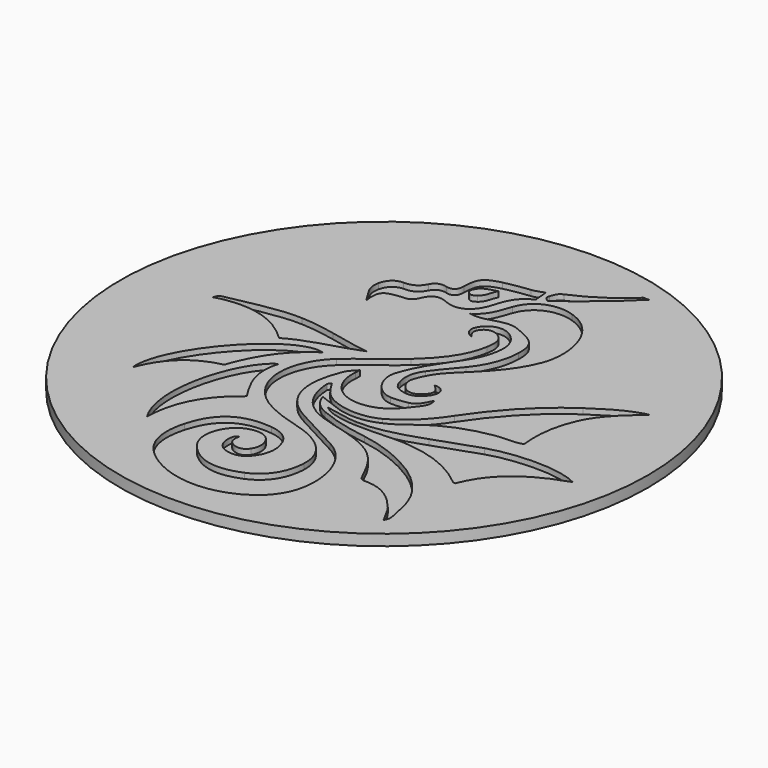
from build123d import *

# Parameters (mm, degrees)
SKETCH001_R  = 240
PAD_DEPTH    = 10
POCKET_DEPTH = 5


with BuildPart() as part:
    # Sketch001 (on DatumPlane) → Pad (new body)
    with BuildSketch(Plane.XY):
        Circle(SKETCH001_R)
    extrude(amount=-PAD_DEPTH)

    # Sketch (on DatumPlane) → Pocket (cut)
    with BuildSketch(Plane(origin=(-180, 220, 0), x_dir=(1, 0, 0), z_dir=(0, 0, 1))):
        with BuildLine():
            add(Edge.make_bspline(
                [(251.898547, -8.966914), (235.215853, -26.176737), (216.200778, -40.627432), (197.433988, -55.327603)],
                knots=[0, 0, 0, 0, 1, 1, 1, 1], degree=3))
            add(Edge.make_bspline(
                [(197.433988, -55.327603), (194.574954, -53.999421), (192.332001, -52.618217), (193.41428, -49.039436)],
                knots=[0, 0, 0, 0, 1, 1, 1, 1], degree=3))
            add(Edge.make_bspline(
                [(193.41428, -49.039436), (194.532515, -45.341858), (195.292001, -42.000355), (199.778461, -40.127714)],
                knots=[0, 0, 0, 0, 1, 1, 1, 1], degree=3))
            add(Edge.make_bspline(
                [(199.778461, -40.127714), (216.698539, -33.06535), (231.496764, -22.527048), (245.384188, -10.672789)],
                knots=[0, 0, 0, 0, 1, 1, 1, 1], degree=3))
            add(Edge.make_bspline(
                [(245.384188, -10.672789), (245.857607, -10.268664), (246.056388, -9.542806), (246.383175, -8.966914)],
                knots=[0, 0, 0, 0, 1, 1, 1, 1], degree=3))
            add(Edge.make_bspline(
                [(246.383175, -8.966914), (248.221632, -8.966914), (250.06009, -8.966914), (251.898547, -8.966914)],
                knots=[0, 0, 0, 0, 1, 1, 1, 1], degree=3))
        make_face()
        with BuildLine():
            add(Edge.make_bspline(
                [(189.325091, -131.952841), (182.651506, -129.816754), (180.049567, -124.129086), (182.697993, -118.828026)],
                knots=[0, 0, 0, 0, 1, 1, 1, 1], degree=3))
            add(Edge.make_bspline(
                [(182.697993, -118.828026), (188.268001, -107.679199), (202.123728, -105.089775), (212.252322, -116.271225)],
                knots=[0, 0, 0, 0, 1, 1, 1, 1], degree=3))
            add(Edge.make_bspline(
                [(212.252322, -116.271225), (220.468587, -125.341565), (218.687597, -136.417182), (215.62404, -146.88095)],
                knots=[0, 0, 0, 0, 1, 1, 1, 1], degree=3))
            add(Edge.make_bspline(
                [(215.62404, -146.88095), (212.979476, -155.913481), (207.48461, -163.666726), (202.092004, -171.362767)],
                knots=[0, 0, 0, 0, 1, 1, 1, 1], degree=3))
            add(Edge.make_bspline(
                [(202.092004, -171.362767), (193.699924, -183.339608), (186.166363, -195.766425), (181.792563, -209.905468)],
                knots=[0, 0, 0, 0, 1, 1, 1, 1], degree=3))
            add(Edge.make_bspline(
                [(181.792563, -209.905468), (177.878581, -222.558028), (189.246563, -239.971659), (202.531239, -240.68913)],
                knots=[0, 0, 0, 0, 1, 1, 1, 1], degree=3))
            add(Edge.make_bspline(
                [(202.531239, -240.68913), (207.48789, -240.956835), (212.604853, -240.210843), (217.497792, -239.197938)],
                knots=[0, 0, 0, 0, 1, 1, 1, 1], degree=3))
            add(Edge.make_bspline(
                [(217.497792, -239.197938), (223.32532, -237.991597), (225.136948, -235.600266), (229.905666, -225.557715)],
                knots=[0, 0, 0, 0, 1, 1, 1, 1], degree=3))
            add(Edge.make_bspline(
                [(229.905666, -225.557715), (231.939015, -230.237903), (230.052615, -234.637051), (228.004952, -237.40028)],
                knots=[0, 0, 0, 0, 1, 1, 1, 1], degree=3))
            add(Edge.make_bspline(
                [(228.004952, -237.40028), (220.747616, -247.193726), (213.659323, -257.161427), (200.479819, -260.579738)],
                knots=[0, 0, 0, 0, 1, 1, 1, 1], degree=3))
            add(Edge.make_bspline(
                [(200.479819, -260.579738), (174.994623, -267.189717), (156.98687, -249.020859), (159.066733, -226.161283)],
                knots=[0, 0, 0, 0, 1, 1, 1, 1], degree=3))
            add(Edge.make_bspline(
                [(159.066733, -226.161283), (159.16828, -225.045058), (159.198178, -223.922325), (159.325363, -221.671303)],
                knots=[0, 0, 0, 0, 1, 1, 1, 1], degree=3))
            add(Edge.make_bspline(
                [(159.325363, -221.671303), (155.714806, -225.295222), (152.924748, -228.126184), (151.339471, -232.099353)],
                knots=[0, 0, 0, 0, 1, 1, 1, 1], degree=3))
            add(Edge.make_bspline(
                [(151.339471, -232.099353), (139.701773, -261.266993), (144.274619, -286.106605), (171.93514, -300.763411)],
                knots=[0, 0, 0, 0, 1, 1, 1, 1], degree=3))
            add(Edge.make_bspline(
                [(171.93514, -300.763411), (185.799756, -308.10999), (199.590951, -315.595), (213.433422, -322.98349)],
                knots=[0, 0, 0, 0, 1, 1, 1, 1], degree=3))
            add(Edge.make_bspline(
                [(213.433422, -322.98349), (240.421319, -337.388518), (246.903214, -374.849337), (237.56448, -397.372179)],
                knots=[0, 0, 0, 0, 1, 1, 1, 1], degree=3))
            add(Edge.make_bspline(
                [(237.56448, -397.372179), (233.795544, -406.461939), (227.493962, -413.727926), (219.428774, -419.279917)],
                knots=[0, 0, 0, 0, 1, 1, 1, 1], degree=3))
            add(Edge.make_bspline(
                [(219.428774, -419.279917), (189.945936, -439.575601), (150.06865, -435.275911), (124.894949, -412.414085)],
                knots=[0, 0, 0, 0, 1, 1, 1, 1], degree=3))
            add(Edge.make_bspline(
                [(124.894949, -412.414085), (110.427876, -399.275644), (108.513166, -381.631428), (113.526226, -363.55782)],
                knots=[0, 0, 0, 0, 1, 1, 1, 1], degree=3))
            add(Edge.make_bspline(
                [(113.526226, -363.55782), (121.035339, -336.485151), (138.329009, -326.282473), (164.843328, -329.106107)],
                knots=[0, 0, 0, 0, 1, 1, 1, 1], degree=3))
            add(Edge.make_bspline(
                [(164.843328, -329.106107), (174.038048, -330.085277), (182.121625, -334.1252), (185.866035, -343.315316)],
                knots=[0, 0, 0, 0, 1, 1, 1, 1], degree=3))
            add(Edge.make_bspline(
                [(185.866035, -343.315316), (190.049547, -353.583134), (188.931206, -363.45405), (181.776079, -372.281212)],
                knots=[0, 0, 0, 0, 1, 1, 1, 1], degree=3))
            add(Edge.make_bspline(
                [(181.776079, -372.281212), (176.478539, -378.816817), (168.43203, -380.413339), (160.127341, -376.630486)],
                knots=[0, 0, 0, 0, 1, 1, 1, 1], degree=3))
            add(Edge.make_bspline(
                [(160.127341, -376.630486), (154.150748, -373.908108), (151.369898, -367.02074), (152.757399, -359.077445)],
                knots=[0, 0, 0, 0, 1, 1, 1, 1], degree=3))
            add(Edge.make_bspline(
                [(152.757399, -359.077445), (153.118688, -357.009065), (154.032003, -355.79476), (156.349991, -354.732908)],
                knots=[0, 0, 0, 0, 1, 1, 1, 1], degree=3))
            add(Edge.make_bspline(
                [(156.349991, -354.732908), (155.190746, -360.441081), (155.760764, -365.085021), (161.77977, -367.551891)],
                knots=[0, 0, 0, 0, 1, 1, 1, 1], degree=3))
            add(Edge.make_bspline(
                [(161.77977, -367.551891), (167.145441, -369.750975), (171.732469, -368.330162), (174.360046, -363.96631)],
                knots=[0, 0, 0, 0, 1, 1, 1, 1], degree=3))
            add(Edge.make_bspline(
                [(174.360046, -363.96631), (177.408073, -358.904249), (177.529146, -352.761338), (174.354146, -347.54439)],
                knots=[0, 0, 0, 0, 1, 1, 1, 1], degree=3))
            add(Edge.make_bspline(
                [(174.354146, -347.54439), (171.146576, -342.273811), (165.709944, -340.069011), (159.638312, -340.654587)],
                knots=[0, 0, 0, 0, 1, 1, 1, 1], degree=3))
            add(Edge.make_bspline(
                [(159.638312, -340.654587), (147.390167, -341.835846), (139.93831, -349.732865), (136.830461, -360.610864)],
                knots=[0, 0, 0, 0, 1, 1, 1, 1], degree=3))
            add(Edge.make_bspline(
                [(136.830461, -360.610864), (133.859508, -371.009624), (136.95008, -380.691999), (145.088636, -388.704164)],
                knots=[0, 0, 0, 0, 1, 1, 1, 1], degree=3))
            add(Edge.make_bspline(
                [(145.088636, -388.704164), (159.681968, -403.070854), (176.496027, -403.166421), (193.774192, -395.981396)],
                knots=[0, 0, 0, 0, 1, 1, 1, 1], degree=3))
            add(Edge.make_bspline(
                [(193.774192, -395.981396), (207.855661, -390.125717), (216.951242, -377.299299), (217.885354, -358.588098)],
                knots=[0, 0, 0, 0, 1, 1, 1, 1], degree=3))
            add(Edge.make_bspline(
                [(217.885354, -358.588098), (218.912334, -338.016718), (203.423599, -325.73296), (186.581441, -319.238339)],
                knots=[0, 0, 0, 0, 1, 1, 1, 1], degree=3))
            add(Edge.make_bspline(
                [(186.581441, -319.238339), (178.094508, -315.965602), (169.052081, -314.157519), (160.477835, -311.082187)],
                knots=[0, 0, 0, 0, 1, 1, 1, 1], degree=3))
            add(Edge.make_bspline(
                [(160.477835, -311.082187), (142.611263, -304.673847), (127.024024, -295.193985), (119.746871, -276.420024)],
                knots=[0, 0, 0, 0, 1, 1, 1, 1], degree=3))
            add(Edge.make_bspline(
                [(119.746871, -276.420024), (112.147482, -256.81469), (119.302556, -233.252857), (135.651002, -218.510035)],
                knots=[0, 0, 0, 0, 1, 1, 1, 1], degree=3))
            add(Edge.make_bspline(
                [(135.651002, -218.510035), (148.75809, -206.690198), (163.643151, -197.170199), (176.779925, -185.510884)],
                knots=[0, 0, 0, 0, 1, 1, 1, 1], degree=3))
            add(Edge.make_bspline(
                [(176.779925, -185.510884), (191.475545, -172.468011), (203.888022, -157.602634), (207.415739, -137.321634)],
                knots=[0, 0, 0, 0, 1, 1, 1, 1], degree=3))
            add(Edge.make_bspline(
                [(207.415739, -137.321634), (208.446687, -131.394491), (209.064463, -125.449991), (204.372633, -120.472121)],
                knots=[0, 0, 0, 0, 1, 1, 1, 1], degree=3))
            add(Edge.make_bspline(
                [(204.372633, -120.472121), (199.931311, -115.76005), (193.235077, -114.659807), (188.931497, -118.399401)],
                knots=[0, 0, 0, 0, 1, 1, 1, 1], degree=3))
            add(Edge.make_bspline(
                [(188.931497, -118.399401), (183.91714, -122.756639), (184.600929, -127.352319), (189.325091, -131.952841)],
                knots=[0, 0, 0, 0, 1, 1, 1, 1], degree=3))
        make_face()
        with BuildLine():
            add(Edge.make_bspline(
                [(362.498137, -146.930983), (349.168641, -158.555637), (336.027977, -169.960449), (328.720344, -186.496828)],
                knots=[0, 0, 0, 0, 1, 1, 1, 1], degree=3))
            add(Edge.make_bspline(
                [(328.720344, -186.496828), (321.545162, -202.733487), (319.242943, -219.636128), (321.421786, -237.764664)],
                knots=[0, 0, 0, 0, 1, 1, 1, 1], degree=3))
            add(Edge.make_bspline(
                [(321.421786, -237.764664), (313.353212, -240.414307), (304.998993, -239.052497), (296.966375, -240.327497)],
                knots=[0, 0, 0, 0, 1, 1, 1, 1], degree=3))
            add(Edge.make_bspline(
                [(296.966375, -240.327497), (275.578305, -243.722313), (256.119551, -251.252249), (239.287156, -265.068341)],
                knots=[0, 0, 0, 0, 1, 1, 1, 1], degree=3))
            add(Edge.make_bspline(
                [(239.287156, -265.068341), (230.455179, -272.317633), (220.405034, -277.65965), (209.336508, -279.589177)],
                knots=[0, 0, 0, 0, 1, 1, 1, 1], degree=3))
            add(Edge.make_bspline(
                [(209.336508, -279.589177), (201.219329, -281.004275), (192.52184, -280.40748), (184.411197, -277.582577)],
                knots=[0, 0, 0, 0, 1, 1, 1, 1], degree=3))
            add(Edge.make_bspline(
                [(184.411197, -277.582577), (178.073659, -275.375291), (171.825444, -272.911385), (164.255397, -270.082327)],
                knots=[0, 0, 0, 0, 1, 1, 1, 1], degree=3))
            add(Edge.make_bspline(
                [(164.255397, -270.082327), (167.051646, -279.197858), (173.19797, -284.126728), (180.073062, -287.085431)],
                knots=[0, 0, 0, 0, 1, 1, 1, 1], degree=3))
            add(Edge.make_bspline(
                [(180.073062, -287.085431), (194.510766, -293.298748), (209.781669, -296.78077), (225.41566, -299.083756)],
                knots=[0, 0, 0, 0, 1, 1, 1, 1], degree=3))
            add(Edge.make_bspline(
                [(225.41566, -299.083756), (240.586974, -301.318612), (254.954405, -306.706826), (268.639343, -313.681189)],
                knots=[0, 0, 0, 0, 1, 1, 1, 1], degree=3))
            add(Edge.make_bspline(
                [(268.639343, -313.681189), (285.225199, -322.133992), (299.232399, -333.57656), (308.300252, -350.109816)],
                knots=[0, 0, 0, 0, 1, 1, 1, 1], degree=3))
            add(Edge.make_bspline(
                [(308.300252, -350.109816), (312.803302, -358.320208), (314.990374, -367.474659), (316.500378, -376.709517)],
                knots=[0, 0, 0, 0, 1, 1, 1, 1], degree=3))
            add(Edge.make_bspline(
                [(316.500378, -376.709517), (317.233591, -381.19386), (319.992587, -385.723262), (316.41632, -391.035328)],
                knots=[0, 0, 0, 0, 1, 1, 1, 1], degree=3))
            add(Edge.make_bspline(
                [(316.41632, -391.035328), (312.685642, -385.026297), (310.481901, -378.804884), (306.311432, -373.704353)],
                knots=[0, 0, 0, 0, 1, 1, 1, 1], degree=3))
            add(Edge.make_bspline(
                [(306.311432, -373.704353), (296.412841, -361.598289), (285.106454, -352.276436), (268.358964, -352.584411)],
                knots=[0, 0, 0, 0, 1, 1, 1, 1], degree=3))
            add(Edge.make_bspline(
                [(268.358964, -352.584411), (265.092841, -352.644498), (263.789054, -350.64409), (262.505031, -347.853979)],
                knots=[0, 0, 0, 0, 1, 1, 1, 1], degree=3))
            add(Edge.make_bspline(
                [(262.505031, -347.853979), (256.343917, -334.46638), (249.380851, -321.438244), (236.39825, -313.367949)],
                knots=[0, 0, 0, 0, 1, 1, 1, 1], degree=3))
            add(Edge.make_bspline(
                [(236.39825, -313.367949), (224.089436, -305.71649), (210.067578, -302.219863), (196.182853, -298.635685)],
                knots=[0, 0, 0, 0, 1, 1, 1, 1], degree=3))
            add(Edge.make_bspline(
                [(196.182853, -298.635685), (184.061497, -295.506669), (172.291693, -291.374724), (164.195945, -281.369373)],
                knots=[0, 0, 0, 0, 1, 1, 1, 1], degree=3))
            add(Edge.make_bspline(
                [(164.195945, -281.369373), (157.629251, -273.253782), (154.92558, -263.246738), (154.358181, -252.802496)],
                knots=[0, 0, 0, 0, 1, 1, 1, 1], degree=3))
            add(Edge.make_bspline(
                [(154.358181, -252.802496), (154.322568, -252.14662), (155.403206, -251.430155), (156.547264, -250.027308)],
                knots=[0, 0, 0, 0, 1, 1, 1, 1], degree=3))
            add(Edge.make_bspline(
                [(156.547264, -250.027308), (160.416531, -256.003901), (163.411006, -261.959143), (169.044805, -266.162843)],
                knots=[0, 0, 0, 0, 1, 1, 1, 1], degree=3))
            add(Edge.make_bspline(
                [(169.044805, -266.162843), (181.990709, -275.822489), (204.236823, -277.636923), (218.504982, -270.130085)],
                knots=[0, 0, 0, 0, 1, 1, 1, 1], degree=3))
            add(Edge.make_bspline(
                [(218.504982, -270.130085), (234.416256, -261.758748), (245.983945, -248.850176), (255.626235, -234.384427)],
                knots=[0, 0, 0, 0, 1, 1, 1, 1], degree=3))
            add(Edge.make_bspline(
                [(255.626235, -234.384427), (272.940145, -208.409487), (293.474669, -185.959882), (319.437491, -168.306115)],
                knots=[0, 0, 0, 0, 1, 1, 1, 1], degree=3))
            add(Edge.make_bspline(
                [(319.437491, -168.306115), (332.003559, -159.761687), (344.601191, -151.794633), (359.2567, -147.496027)],
                knots=[0, 0, 0, 0, 1, 1, 1, 1], degree=3))
            add(Edge.make_bspline(
                [(359.2567, -147.496027), (360.302413, -147.189296), (361.416097, -147.113943), (362.498137, -146.930983)],
                knots=[0, 0, 0, 0, 1, 1, 1, 1], degree=3))
        make_face()
        with BuildLine():
            add(Edge.make_bspline(
                [(215.332971, -206.809208), (222.007827, -206.25353), (226.185677, -210.864053), (224.461096, -216.882663)],
                knots=[0, 0, 0, 0, 1, 1, 1, 1], degree=3))
            add(Edge.make_bspline(
                [(224.461096, -216.882663), (222.62301, -223.297459), (214.496915, -230.046556), (208.192264, -229.285244)],
                knots=[0, 0, 0, 0, 1, 1, 1, 1], degree=3))
            add(Edge.make_bspline(
                [(208.192264, -229.285244), (199.558275, -228.242601), (194.676818, -226.139613), (192.293028, -216.756377)],
                knots=[0, 0, 0, 0, 1, 1, 1, 1], degree=3))
            add(Edge.make_bspline(
                [(192.293028, -216.756377), (190.207583, -208.547547), (191.701923, -201.068808), (196.717497, -193.988928)],
                knots=[0, 0, 0, 0, 1, 1, 1, 1], degree=3))
            add(Edge.make_bspline(
                [(196.717497, -193.988928), (202.419691, -185.9398), (208.924684, -178.602614), (215.185466, -171.029551)],
                knots=[0, 0, 0, 0, 1, 1, 1, 1], degree=3))
            add(Edge.make_bspline(
                [(215.185466, -171.029551), (224.762325, -159.445299), (230.383821, -145.706703), (230.886423, -130.955071)],
                knots=[0, 0, 0, 0, 1, 1, 1, 1], degree=3))
            add(Edge.make_bspline(
                [(230.886423, -130.955071), (231.473269, -113.730379), (224.89369, -109.280299), (206.530575, -101.978195)],
                knots=[0, 0, 0, 0, 1, 1, 1, 1], degree=3))
            add(Edge.make_bspline(
                [(206.530575, -101.978195), (196.127344, -97.841329), (187.360639, -103.222213), (177.935334, -104.91126)],
                knots=[0, 0, 0, 0, 1, 1, 1, 1], degree=3))
            add(Edge.make_bspline(
                [(177.935334, -104.91126), (174.568062, -105.514696), (171.363005, -105.786211), (166.306103, -104.987249)],
                knots=[0, 0, 0, 0, 1, 1, 1, 1], degree=3))
            add(Edge.make_bspline(
                [(166.306103, -104.987249), (177.418339, -98.17264), (179.618666, -87.773828), (183.063674, -78.009512)],
                knots=[0, 0, 0, 0, 1, 1, 1, 1], degree=3))
            add(Edge.make_bspline(
                [(183.063674, -78.009512), (188.835109, -61.651409), (205.881261, -55.005076), (222.992844, -60.364767)],
                knots=[0, 0, 0, 0, 1, 1, 1, 1], degree=3))
            add(Edge.make_bspline(
                [(222.992844, -60.364767), (254.445717, -70.216421), (261.733824, -109.739509), (253.150899, -131.950328)],
                knots=[0, 0, 0, 0, 1, 1, 1, 1], degree=3))
            add(Edge.make_bspline(
                [(253.150899, -131.950328), (244.445816, -154.477323), (227.696554, -169.331031), (211.711514, -185.315701)],
                knots=[0, 0, 0, 0, 1, 1, 1, 1], degree=3))
            add(Edge.make_bspline(
                [(211.711514, -185.315701), (204.659997, -192.367006), (200.098157, -200.409201), (197.268015, -209.659432)],
                knots=[0, 0, 0, 0, 1, 1, 1, 1], degree=3))
            add(Edge.make_bspline(
                [(197.268015, -209.659432), (195.611776, -215.072886), (199.440853, -222.489369), (205.053935, -225.088794)],
                knots=[0, 0, 0, 0, 1, 1, 1, 1], degree=3))
            add(Edge.make_bspline(
                [(205.053935, -225.088794), (210.505596, -227.613422), (214.843836, -225.24675), (218.461325, -221.302474)],
                knots=[0, 0, 0, 0, 1, 1, 1, 1], degree=3))
            add(Edge.make_bspline(
                [(218.461325, -221.302474), (223.166358, -216.172362), (222.38417, -212.914336), (215.332971, -206.809208)],
                knots=[0, 0, 0, 0, 1, 1, 1, 1], degree=3))
        make_face()
        with BuildLine():
            add(Edge.make_bspline(
                [(384.796612, -261.703317), (356.153588, -271.228), (332.251473, -285.591647), (320.842693, -315.383016)],
                knots=[0, 0, 0, 0, 1, 1, 1, 1], degree=3))
            add(Edge.make_bspline(
                [(320.842693, -315.383016), (320.152316, -315.210031), (319.090701, -315.254137), (318.492135, -314.749259)],
                knots=[0, 0, 0, 0, 1, 1, 1, 1], degree=3))
            add(Edge.make_bspline(
                [(318.492135, -314.749259), (297.606879, -297.131634), (273.760777, -289.175455), (246.223658, -289.127248)],
                knots=[0, 0, 0, 0, 1, 1, 1, 1], degree=3))
            add(Edge.make_bspline(
                [(246.223658, -289.127248), (229.664392, -289.098249), (212.951907, -291.331862), (196.399573, -288.244862)],
                knots=[0, 0, 0, 0, 1, 1, 1, 1], degree=3))
            add(Edge.make_bspline(
                [(196.399573, -288.244862), (190.204672, -287.089506), (184.064593, -286.034586), (177.547482, -280.625471)],
                knots=[0, 0, 0, 0, 1, 1, 1, 1], degree=3))
            add(Edge.make_bspline(
                [(177.547482, -280.625471), (188.659294, -282.171881), (197.534556, -285.136537), (207.018096, -285.44901)],
                knots=[0, 0, 0, 0, 1, 1, 1, 1], degree=3))
            add(Edge.make_bspline(
                [(207.018096, -285.44901), (226.97567, -286.106658), (245.375245, -280.394384), (263.730793, -273.795966)],
                knots=[0, 0, 0, 0, 1, 1, 1, 1], degree=3))
            add(Edge.make_bspline(
                [(263.730793, -273.795966), (276.838093, -269.08416), (290.007225, -264.537508), (303.211018, -260.102403)],
                knots=[0, 0, 0, 0, 1, 1, 1, 1], degree=3))
            add(Edge.make_bspline(
                [(303.211018, -260.102403), (323.417406, -253.315126), (363.70006, -250.338458), (384.796612, -261.703317)],
                knots=[0, 0, 0, 0, 1, 1, 1, 1], degree=3))
        make_face()
        with BuildLine():
            add(Edge.make_bspline(
                [(187.928832, -46.06126), (188.336423, -50.630534), (188.69234, -54.620954), (189.0971, -59.158822)],
                knots=[0, 0, 0, 0, 1, 1, 1, 1], degree=3))
            add(Edge.make_bspline(
                [(189.0971, -59.158822), (177.701363, -63.836206), (173.705282, -73.488047), (170.531155, -84.524347)],
                knots=[0, 0, 0, 0, 1, 1, 1, 1], degree=3))
            add(Edge.make_bspline(
                [(170.531155, -84.524347), (166.567697, -98.30517), (156.578512, -107.934046), (140.816304, -101.057763)],
                knots=[0, 0, 0, 0, 1, 1, 1, 1], degree=3))
            add(Edge.make_bspline(
                [(140.816304, -101.057763), (132.161994, -97.282317), (126.973621, -100.056262), (123.417515, -108.560023)],
                knots=[0, 0, 0, 0, 1, 1, 1, 1], degree=3))
            add(Edge.make_bspline(
                [(123.417515, -108.560023), (121.426949, -113.320089), (118.206176, -115.255331), (113.361444, -115.235725)],
                knots=[0, 0, 0, 0, 1, 1, 1, 1], degree=3))
            add(Edge.make_bspline(
                [(113.361444, -115.235725), (112.674003, -115.232947), (111.978281, -115.200959), (111.300101, -115.288642)],
                knots=[0, 0, 0, 0, 1, 1, 1, 1], degree=3))
            add(Edge.make_bspline(
                [(111.300101, -115.288642), (98.502946, -116.943055), (93.33267, -117.646635), (95.847297, -134.995576)],
                knots=[0, 0, 0, 0, 1, 1, 1, 1], degree=3))
            add(Edge.make_bspline(
                [(95.847297, -134.995576), (90.784363, -125.829325), (83.52536, -119.219768), (86.053956, -108.663052)],
                knots=[0, 0, 0, 0, 1, 1, 1, 1], degree=3))
            add(Edge.make_bspline(
                [(86.053956, -108.663052), (87.790708, -101.412357), (92.540164, -97.157831), (99.523973, -97.137114)],
                knots=[0, 0, 0, 0, 1, 1, 1, 1], degree=3))
            add(Edge.make_bspline(
                [(99.523973, -97.137114), (106.863753, -97.115365), (111.484278, -94.561554), (114.794718, -88.127364)],
                knots=[0, 0, 0, 0, 1, 1, 1, 1], degree=3))
            add(Edge.make_bspline(
                [(114.794718, -88.127364), (117.204305, -83.444106), (121.253938, -81.530984), (126.902236, -82.964787)],
                knots=[0, 0, 0, 0, 1, 1, 1, 1], degree=3))
            add(Edge.make_bspline(
                [(126.902236, -82.964787), (133.186435, -84.559987), (136.253061, -81.738444), (136.491742, -75.033135)],
                knots=[0, 0, 0, 0, 1, 1, 1, 1], degree=3))
            add(Edge.make_bspline(
                [(136.491742, -75.033135), (137.014188, -60.355956), (139.466426, -56.915288), (154.067933, -53.16093)],
                knots=[0, 0, 0, 0, 1, 1, 1, 1], degree=3))
            add(Edge.make_bspline(
                [(154.067933, -53.16093), (161.575962, -51.230451), (169.364607, -50.278612), (177.080439, -49.318571)],
                knots=[0, 0, 0, 0, 1, 1, 1, 1], degree=3))
            add(Edge.make_bspline(
                [(177.080439, -49.318571), (180.718883, -48.865896), (184.02681, -47.553774), (187.928832, -46.06126)],
                knots=[0, 0, 0, 0, 1, 1, 1, 1], degree=3))
        make_face()
        with BuildLine():
            add(Edge.make_bspline(
                [(160.261723, -65.483978), (154.475815, -67.166834), (148.339281, -67.755373), (145.110544, -73.614915)],
                knots=[0, 0, 0, 0, 1, 1, 1, 1], degree=3))
            add(Edge.make_bspline(
                [(145.110544, -73.614915), (143.60398, -76.349066), (143.511958, -78.935554), (146.195627, -80.866165)],
                knots=[0, 0, 0, 0, 1, 1, 1, 1], degree=3))
            add(Edge.make_bspline(
                [(146.195627, -80.866165), (148.606563, -82.600535), (150.63253, -81.523999), (152.911784, -79.85506)],
                knots=[0, 0, 0, 0, 1, 1, 1, 1], degree=3))
            add(Edge.make_bspline(
                [(152.911784, -79.85506), (157.780196, -76.290196), (157.54522, -70.236159), (160.261723, -65.483978)],
                knots=[0, 0, 0, 0, 1, 1, 1, 1], degree=3))
        make_face(mode=Mode.SUBTRACT)
        with BuildLine():
            add(Edge.make_bspline(
                [(108.409555, -250.120388), (101.813201, -271.330949), (111.775875, -287.524587), (121.648696, -303.135268)],
                knots=[0, 0, 0, 0, 1, 1, 1, 1], degree=3))
            add(Edge.make_bspline(
                [(121.648696, -303.135268), (98.073236, -320.63854), (86.580107, -343.424669), (85.77035, -371.740986)],
                knots=[0, 0, 0, 0, 1, 1, 1, 1], degree=3))
            add(Edge.make_bspline(
                [(85.77035, -371.740986), (61.881359, -332.071504), (85.551777, -262.530193), (108.409555, -250.120388)],
                knots=[0, 0, 0, 0, 1, 1, 1, 1], degree=3))
        make_face()
        with BuildLine():
            add(Edge.make_bspline(
                [(30.494102, -318.986905), (26.522865, -279.084775), (91.318027, -207.426825), (121.46579, -216.84914)],
                knots=[0, 0, 0, 0, 1, 1, 1, 1], degree=3))
            add(Edge.make_bspline(
                [(121.46579, -216.84914), (99.532863, -231.066737), (86.764733, -251.858912), (78.976405, -275.179552)],
                knots=[0, 0, 0, 0, 1, 1, 1, 1], degree=3))
            add(Edge.make_bspline(
                [(78.976405, -275.179552), (54.529831, -280.752021), (39.515124, -295.356703), (30.494102, -318.986905)],
                knots=[0, 0, 0, 0, 1, 1, 1, 1], degree=3))
        make_face()
        with BuildLine():
            add(Edge.make_bspline(
                [(144.942507, -196.084508), (124.802106, -204.479657), (102.858411, -207.482705), (83.635109, -218.894343)],
                knots=[0, 0, 0, 0, 1, 1, 1, 1], degree=3))
            add(Edge.make_bspline(
                [(83.635109, -218.894343), (62.302073, -198.126271), (37.300429, -190.952226), (7.981606, -199.17619)],
                knots=[0, 0, 0, 0, 1, 1, 1, 1], degree=3))
            add(Edge.make_bspline(
                [(7.981606, -199.17619), (8.472249, -195.081313), (11.135625, -194.273593), (13.693854, -193.777394)],
                knots=[0, 0, 0, 0, 1, 1, 1, 1], degree=3))
            add(Edge.make_bspline(
                [(13.693854, -193.777394), (34.717699, -189.699477), (55.498365, -183.970189), (77.232616, -184.748091)],
                knots=[0, 0, 0, 0, 1, 1, 1, 1], degree=3))
            add(Edge.make_bspline(
                [(77.232616, -184.748091), (88.017826, -185.134118), (98.641773, -187.012448), (109.089613, -189.162716)],
                knots=[0, 0, 0, 0, 1, 1, 1, 1], degree=3))
            add(Edge.make_bspline(
                [(109.089613, -189.162716), (120.925537, -191.598603), (132.631947, -194.524551), (144.942507, -196.084508)],
                knots=[0, 0, 0, 0, 1, 1, 1, 1], degree=3))
        make_face()
    extrude(amount=-POCKET_DEPTH, mode=Mode.SUBTRACT)


solid = part.part
